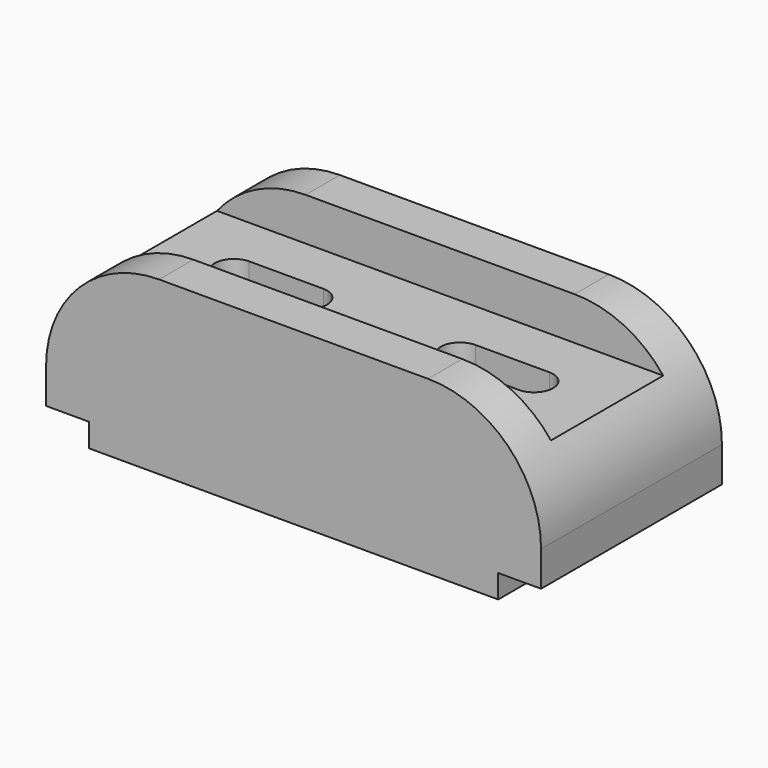
from build123d import *

# Parameters (mm, degrees)
F1_DEPTH = 29
F2_W     = 36
F2_H     = 11
F3_DEPTH = 127.001
F5_DEPTH = 58.001
F7_DEPTH = 58.001
F9_DEPTH = 33.001


with BuildPart() as f1:
    # F0 (on Front) → F1 (new body, symmetric)
    with BuildSketch(Plane.XZ):
        Polygon((11, 6), (11, 0), (116, 0), (116, 6), (127, 6), (127, 44), (0, 44), (0, 6), align=None)
    extrude(amount=F1_DEPTH, both=True)

    # F2 (on face) → F3 (cut, through all)
    with BuildSketch(Plane.YZ.offset(127)):
        with Locations((0, 38.5)):
            Rectangle(F2_W, F2_H)
    extrude(amount=-F3_DEPTH, mode=Mode.SUBTRACT)

    # F4 (on face) → F5 (cut, through all)
    with BuildSketch(Plane.XZ.offset(29)):
        with BuildLine():
            ThreePointArc((0, 15), (8.493903, 35.506097), (29, 44))
            Line((29, 44), (0, 44))
            Line((0, 44), (0, 15))
        make_face()
    extrude(amount=-F5_DEPTH, mode=Mode.SUBTRACT)

    # F6 (on face) → F7 (cut, through all)
    with BuildSketch(Plane.XZ.offset(29)):
        with BuildLine():
            ThreePointArc((98, 44), (118.506097, 35.506097), (127, 15))
            Line((127, 15), (127, 44))
            Line((127, 44), (98, 44))
        make_face()
    extrude(amount=-F7_DEPTH, mode=Mode.SUBTRACT)

    # F8 (on face) → F9 (cut, through all)
    with BuildSketch(Plane.XY.offset(33)):
        with BuildLine():
            Line((102, 4.898486), (83, 4.898486))
            ThreePointArc((83, 4.898486), (78.101514, 0), (83, -4.898486))
            Line((83, -4.898486), (102, -4.898486))
            ThreePointArc((102, -4.898486), (106.898486, 0), (102, 4.898486))
        make_face()
        with BuildLine():
            Line((44, 4.898486), (25, 4.898486))
            ThreePointArc((25, 4.898486), (20.101514, 0), (25, -4.898486))
            Line((25, -4.898486), (44, -4.898486))
            ThreePointArc((44, -4.898486), (48.898486, 0), (44, 4.898486))
        make_face()
    extrude(amount=-F9_DEPTH, mode=Mode.SUBTRACT)


solid = f1.part
